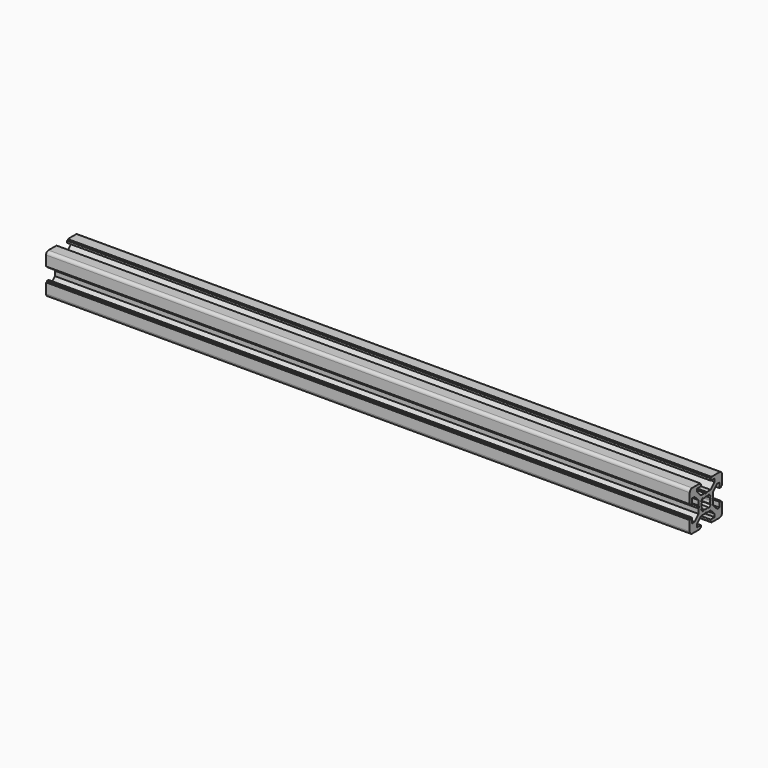
from build123d import *

# Parameters (mm, degrees)
PAD_DEPTH = 320


with BuildPart() as part:
    # Sketch → Pad (new body)
    with BuildSketch(Plane.YZ):
        with BuildLine():
            Line((0, 4.1), (0.65, 4.5))
            Line((0.65, 4.5), (3, 4.5))
            Line((3, 4.5), (5.5, 7))
            Line((5.5, 7), (5.5, 8.5))
            Line((5.5, 8.5), (3, 8.5))
            Line((3, 8.5), (3, 9.5))
            Line((3, 9.5), (3.5, 9.5))
            Line((3.5, 9.5), (3.5, 10))
            Line((3.5, 10), (8.5, 10))
            ThreePointArc((10, 8.5), (9.56066, 9.56066), (8.5, 10))
            Line((10, 8.5), (10, 3.5))
            Line((10, 3.5), (9.5, 3.5))
            Line((9.5, 3.5), (9.5, 3))
            Line((9.5, 3), (8.5, 3))
            Line((8.5, 3), (8.5, 5.5))
            Line((8.5, 5.5), (7, 5.5))
            Line((7, 5.5), (4.5, 3))
            Line((4.5, 3), (4.5, 0.65))
            Line((4.5, 0.65), (4.1, 0))
            Line((4.5, -0.65), (4.1, 0))
            Line((4.5, -3), (4.5, -0.65))
            Line((7, -5.5), (4.5, -3))
            Line((8.5, -5.5), (7, -5.5))
            Line((8.5, -3), (8.5, -5.5))
            Line((9.5, -3), (8.5, -3))
            Line((9.5, -3.5), (9.5, -3))
            Line((10, -3.5), (9.5, -3.5))
            Line((10, -8.5), (10, -3.5))
            ThreePointArc((8.5, -10), (9.56066, -9.56066), (10, -8.5))
            Line((3.5, -10), (8.5, -10))
            Line((3.5, -9.5), (3.5, -10))
            Line((3, -9.5), (3.5, -9.5))
            Line((3, -8.5), (3, -9.5))
            Line((5.5, -8.5), (3, -8.5))
            Line((5.5, -7), (5.5, -8.5))
            Line((3, -4.5), (5.5, -7))
            Line((0.65, -4.5), (3, -4.5))
            Line((0, -4.1), (0.65, -4.5))
            Line((0, -4.1), (-0.65, -4.5))
            Line((-0.65, -4.5), (-3, -4.5))
            Line((-3, -4.5), (-5.5, -7))
            Line((-5.5, -7), (-5.5, -8.5))
            Line((-5.5, -8.5), (-3, -8.5))
            Line((-3, -8.5), (-3, -9.5))
            Line((-3, -9.5), (-3.5, -9.5))
            Line((-3.5, -9.5), (-3.5, -10))
            Line((-3.5, -10), (-8.5, -10))
            ThreePointArc((-10, -8.5), (-9.56066, -9.56066), (-8.5, -10))
            Line((-10, -8.5), (-10, -3.5))
            Line((-10, -3.5), (-9.5, -3.5))
            Line((-9.5, -3.5), (-9.5, -3))
            Line((-9.5, -3), (-8.5, -3))
            Line((-8.5, -3), (-8.5, -5.5))
            Line((-8.5, -5.5), (-7, -5.5))
            Line((-7, -5.5), (-4.5, -3))
            Line((-4.5, -3), (-4.5, -0.65))
            Line((-4.5, -0.65), (-4.1, 0))
            Line((-4.5, 0.65), (-4.1, 0))
            Line((-4.5, 3), (-4.5, 0.65))
            Line((-7, 5.5), (-4.5, 3))
            Line((-8.5, 5.5), (-7, 5.5))
            Line((-8.5, 3), (-8.5, 5.5))
            Line((-9.5, 3), (-8.5, 3))
            Line((-9.5, 3.5), (-9.5, 3))
            Line((-10, 3.5), (-9.5, 3.5))
            Line((-10, 8.5), (-10, 3.5))
            ThreePointArc((-8.5, 10), (-9.56066, 9.56066), (-10, 8.5))
            Line((-3.5, 10), (-8.5, 10))
            Line((-3.5, 9.5), (-3.5, 10))
            Line((-3, 9.5), (-3.5, 9.5))
            Line((-3, 8.5), (-3, 9.5))
            Line((-5.5, 8.5), (-3, 8.5))
            Line((-5.5, 7), (-5.5, 8.5))
            Line((-3, 4.5), (-5.5, 7))
            Line((-0.65, 4.5), (-3, 4.5))
            Line((0, 4.1), (-0.65, 4.5))
        make_face()
        with BuildLine():
            Line((1.340499, 2.401159), (1.923239, 2.983899))
            Line((1.923239, 2.983899), (2.983899, 1.923239))
            Line((2.983899, 1.923239), (2.401159, 1.340499))
            ThreePointArc((2.75, 0), (2.661361, 0.692573), (2.401159, 1.340499))
            ThreePointArc((2.401164, -1.34049), (2.661362, -0.692568), (2.75, 0))
            Line((2.983904, -1.92323), (2.401164, -1.34049))
            Line((1.923247, -2.983894), (2.983904, -1.92323))
            Line((1.340507, -2.401154), (1.923247, -2.983894))
            ThreePointArc((0, -2.75), (0.692577, -2.66136), (1.340507, -2.401154))
            ThreePointArc((-1.340507, -2.401154), (-0.692577, -2.66136), (0, -2.75))
            Line((-1.340507, -2.401154), (-1.923247, -2.983894))
            Line((-1.923247, -2.983894), (-2.983904, -1.92323))
            Line((-2.983904, -1.92323), (-2.401164, -1.34049))
            ThreePointArc((-2.75, 0), (-2.661362, -0.692568), (-2.401164, -1.34049))
            ThreePointArc((-2.401159, 1.340499), (-2.661361, 0.692572), (-2.75, 0))
            Line((-2.983899, 1.923239), (-2.401159, 1.340499))
            Line((-1.923239, 2.983899), (-2.983899, 1.923239))
            Line((-1.340499, 2.401159), (-1.923239, 2.983899))
            ThreePointArc((0, 2.75), (-0.692573, 2.661361), (-1.340499, 2.401159))
            ThreePointArc((1.340499, 2.401159), (0.692573, 2.661361), (0, 2.75))
        make_face(mode=Mode.SUBTRACT)
    extrude(amount=PAD_DEPTH)


solid = part.part
